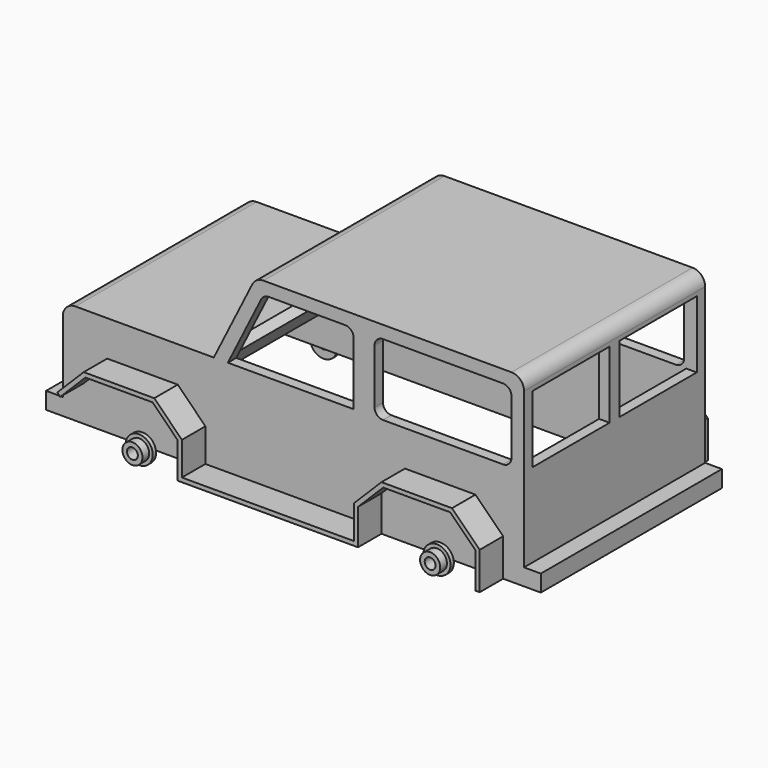
from build123d import *

# Parameters (mm, degrees)
F1_DEPTH      = 27
F1_DEPTH_BACK = 27
F2_T          = -2.5
F3_W          = 23.25
F3_H          = 15.5065778087
F4_DEPTH      = 2.5
F6_DEPTH      = 54.001
F7_W          = 23
F7_H          = 16
F9_DEPTH      = 2.5
F8_R          = 4
F8_R_2        = 3.25
F10_DEPTH     = 1
F12_DEPTH     = 7
F14_R         = 3.25
F15_DEPTH     = 1
F16_R         = 2.4
F17_DEPTH     = 2
F18_R         = 1.3
F19_DEPTH     = 5
F21_W         = 2.5
F21_H         = 12
F22_DEPTH     = 1
F23_SCALE     = 34


with BuildPart() as f1:
    # F0 (on Front) → F1 (new body, two sides)
    with BuildSketch(Plane.XZ) as f1_sk:
        with BuildLine():
            Line((-54, 21), (-54, 4))
            Line((-54, 4), (-58, 4))
            Line((-58, 4), (-58, 0))
            Line((-58, 0), (-54, 0))
            Line((-54, 0), (56, 0))
            Line((56, 0), (60, 0))
            Line((60, 0), (60, 4))
            Line((60, 4), (56, 4))
            Line((56, 4), (56, 41))
            ThreePointArc((56, 41), (55.1213203436, 43.1213203436), (53, 44))
            Line((53, 44), (-6.1458980338, 44))
            ThreePointArc((-6.1458980338, 44), (-7.7230913701, 43.5519524251), (-8.8291796068, 42.3416407865))
            Line((-8.8291796068, 42.3416407865), (-18, 24))
            Line((-18, 24), (-51, 24))
            ThreePointArc((-51, 24), (-53.1213203436, 23.1213203436), (-54, 21))
        make_face()
    extrude(amount=F1_DEPTH)
    extrude(f1_sk.sketch, amount=-F1_DEPTH_BACK)

    # F2
    f2_openings = [f1.faces().sort_by_distance(p)[0] for p in [
        (1, 0, 0),
    ]]
    offset(amount=F2_T, openings=f2_openings, kind=Kind.INTERSECTION)

    # F3 (on face) → F4 (cut, through all)
    with BuildSketch(Plane(origin=(-24, 0, 12), x_dir=(0, -1, 0), z_dir=(-0.894427191, 0, 0.4472135955))):
        with Locations((-12.875, 23.6696967694)):
            Rectangle(F3_W, F3_H)
        with Locations((12.875, 23.6696967694)):
            Rectangle(F3_W, F3_H)
    extrude(amount=-F4_DEPTH, mode=Mode.SUBTRACT)

    # F5 (on face) → F6 (cut, through all)
    with BuildSketch(Plane.XZ.offset(27)):
        with BuildLine():
            Line((-6.6986844383, 39.894427191), (-14.6458980338, 24))
            Line((-14.6458980338, 24), (15.3541019662, 24))
            Line((15.3541019662, 24), (15.3541019662, 39))
            ThreePointArc((15.3541019662, 39), (14.7683155286, 40.4142135624), (13.3541019662, 41))
            Line((13.3541019662, 41), (-4.9098300563, 41))
            ThreePointArc((-4.9098300563, 41), (-5.9612922805, 40.7013016167), (-6.6986844383, 39.894427191))
        make_face()
        with BuildLine():
            Line((51, 41), (22.3541019662, 41))
            ThreePointArc((22.3541019662, 41), (20.9398884039, 40.4142135624), (20.3541019662, 39))
            Line((20.3541019662, 39), (20.3541019662, 26))
            ThreePointArc((20.3541019662, 26), (20.9398884039, 24.5857864376), (22.3541019662, 24))
            Line((22.3541019662, 24), (51, 24))
            ThreePointArc((51, 24), (52.4142135624, 24.5857864376), (53, 26))
            Line((53, 26), (53, 39))
            ThreePointArc((53, 39), (52.4142135624, 40.4142135624), (51, 41))
        make_face()
    extrude(amount=-F6_DEPTH, mode=Mode.SUBTRACT)

    # F7 (on face) → F9 (cut, through all)
    with BuildSketch(Plane.YZ.offset(56)):
        with Locations((13, 32)):
            Rectangle(F7_W, F7_H)
        with Locations((-13, 32)):
            Rectangle(F7_W, F7_H)
    extrude(amount=-F9_DEPTH, mode=Mode.SUBTRACT)

    # F8 (on face) → F10 (join)
    with BuildSketch(Plane(origin=(-54, 0, 0), x_dir=(0, -1, 0), z_dir=(-1, 0, 0))):
        with Locations((-18.5, 16)):
            Circle(F8_R)
        with Locations((-18.5, 16)):
            Circle(F8_R_2, mode=Mode.SUBTRACT)
        with Locations((18.5, 16)):
            Circle(F8_R)
        with Locations((18.5, 16)):
            Circle(F8_R_2, mode=Mode.SUBTRACT)
    extrude(amount=F10_DEPTH)

    # F13: F12 across plane


with BuildPart() as f12:
    # F11 (on face) → F12 (new body)
    with BuildSketch(Plane.XZ.offset(27)):
        Polygon((-49.7279220614, 9.2071067812), (-49.0208152802, 8.5), (-43.0104076401, 14.5104076401), (-27.0104076401, 14.5104076401), (-21, 8.5), (-21, 0), (22, 0), (22, 8.5), (28.0104076401, 14.5104076401), (44.0104076401, 14.5104076401), (50.0208152802, 8.5), (50.0208152802, 0), (51.0208152802, 0), (51.0208152802, 8.9142135624), (44.4246212025, 15.5104076401), (27.5961940777, 15.5104076401), (21, 8.9142135624), (21, 1), (-20, 1), (-20, 8.9142135624), (-26.5961940777, 15.5104076401), (-43.4246212025, 15.5104076401), align=None)
    extrude(amount=F12_DEPTH)


with BuildPart() as f1_1:
    add(f1.part)
    add(f12.part.mirror(Plane.XZ))


with BuildPart() as f15:
    # F14 (on face) → F15 (new body)
    with BuildSketch(Plane.XZ.offset(27)):
        with Locations((-35.0104076401, -0.4895923599)):
            Circle(F14_R)
    extrude(amount=F15_DEPTH)

    # F16 (on face) → F17 (join)
    with BuildSketch(Plane.XZ.offset(28)):
        with Locations((-35.0104076401, -0.4895923599)):
            Circle(F16_R)
    extrude(amount=F17_DEPTH)


with BuildPart() as f15b:
    # F14 (on face) → F15, piece 2 (new body)
    with BuildSketch(Plane.XZ.offset(27)):
        with Locations((36.0104076401, -0.4895923599)):
            Circle(F14_R)
    extrude(amount=F15_DEPTH)

    # F16 (on face) → F17, piece 2 (join)
    with BuildSketch(Plane.XZ.offset(28)):
        with Locations((36.0104076401, -0.4895923599)):
            Circle(F16_R)
    extrude(amount=F17_DEPTH)


with BuildPart() as f19_tool:
    # F18 (on face) → F19 (new body)
    with BuildSketch(Plane.XZ.offset(30)):
        with Locations((-35.0104076401, -0.4895923599)):
            Circle(F18_R)
        with Locations((36.0104076401, -0.4895923599)):
            Circle(F18_R)
    extrude(amount=-F19_DEPTH)


with BuildPart() as f1_2:
    add(f1_1.part)

    # F19: cut by f19_tool
    add(f19_tool.part, mode=Mode.SUBTRACT)



with BuildPart() as f15_1:
    add(f15.part)

    # F19: cut by f19_tool
    add(f19_tool.part, mode=Mode.SUBTRACT)


with BuildPart() as f15b_1:
    add(f15b.part)

    # F19: cut by f19_tool
    add(f19_tool.part, mode=Mode.SUBTRACT)


with BuildPart() as f1_3:
    add(f1_2.part)

    add(f12.part)  # F20 merges F12

    add(f15_1.part)  # F20 merges F15

    add(f15b_1.part)  # F20 merges F15b
    # F20: F15b, F15 across plane
    add(f15b_1.part.mirror(Plane.XZ))
    add(f15_1.part.mirror(Plane.XZ))

    # F21 (on face) → F22 (cut)
    with BuildSketch(Plane(origin=(-54, 0, 0), x_dir=(0, -1, 0), z_dir=(-1, 0, 0))):
        with Locations((-10, 12.5)):
            Rectangle(F21_W, F21_H)
        with Locations((-5, 12.5)):
            Rectangle(F21_W, F21_H)
        with Locations((5, 12.5)):
            Rectangle(F21_W, F21_H)
        with Locations((10, 12.5)):
            Rectangle(F21_W, F21_H)
        with Locations((0, 12.5)):
            Rectangle(F21_W, F21_H)
    extrude(amount=-F22_DEPTH, mode=Mode.SUBTRACT)


with BuildPart() as f1_4:
    # F23: moved
    add(f1_3.part.scale(F23_SCALE))


solid = f1_4.part
